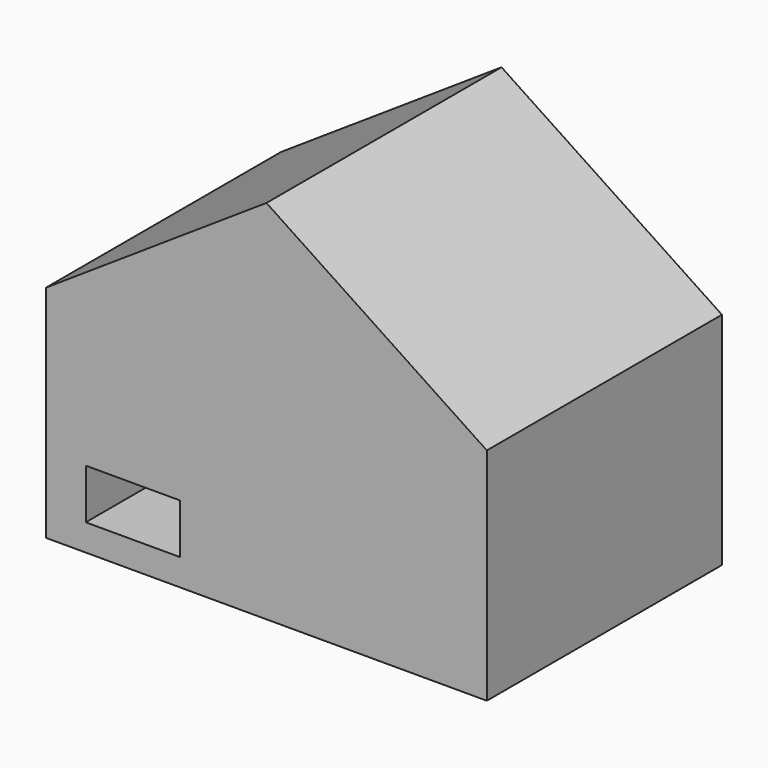
from build123d import *

# Parameters (mm, degrees)
F0_W     = 32.065868
F0_H     = 16.976055
F0_W_2   = 15
F0_H_2   = 30
F1_DEPTH = 100


with BuildPart() as f1:
    # F0 (on Front) → F1 (new body)
    with BuildSketch(Plane.XZ):
        Polygon((-75, 0), (-75, -75), (-7.090706, -75), (-7.090706, -45), (7.909294, -45), (7.909294, -75), (75, -75), (75, 0), align=None)
        with Locations((-45.458086, -57.435633)):
            Rectangle(F0_W, F0_H, mode=Mode.SUBTRACT)
        Polygon((0, 49.749372), (-75, 0), (75, 0), align=None)
        with Locations((0.409294, -60)):
            Rectangle(F0_W_2, F0_H_2)
    extrude(amount=F1_DEPTH)


solid = f1.part
